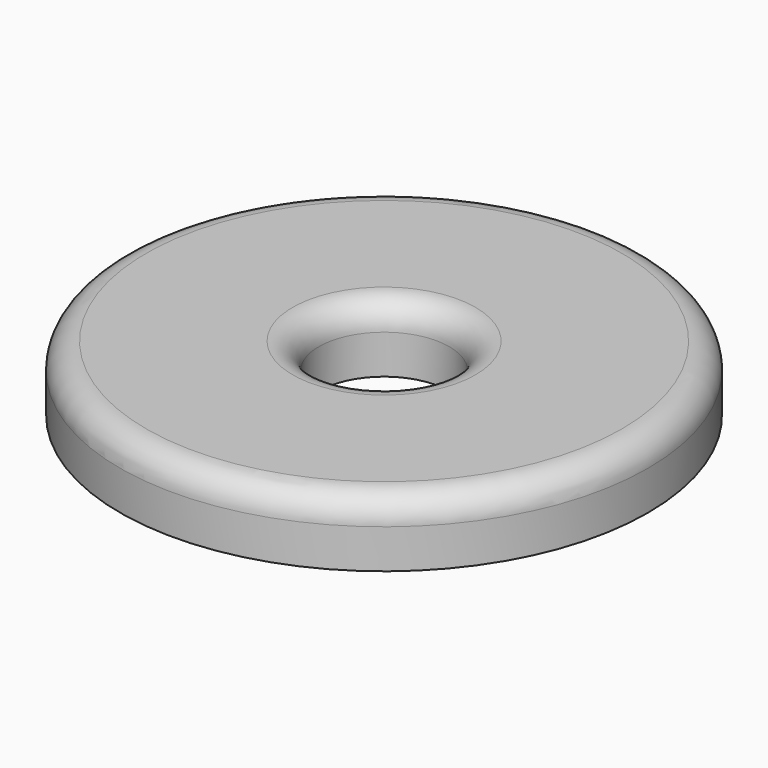
from build123d import *

# Parameters (mm, degrees)
F0_R     = 51.33938
F0_R_2   = 12.7
F1_DEPTH = 12.7
F2_R     = 5.08
F3_T     = -2.54


with BuildPart() as f1:
    # F0 (on Top) → F1 (new body)
    with BuildSketch(Plane.XY):
        Circle(F0_R)
        Circle(F0_R_2, mode=Mode.SUBTRACT)
    extrude(amount=F1_DEPTH)

    # F2
    f2_edges = [f1.edges().sort_by_distance(p)[0] for p in [
        (-51.33938, 0, 12.7),
        (-12.7, 0, 12.7),
    ]]
    fillet(f2_edges, radius=F2_R)

    # F3
    f3_openings = [f1.faces().sort_by_distance(p)[0] for p in [
        (-49.887283, 0, 0),
    ]]
    offset(amount=F3_T, openings=f3_openings)


solid = f1.part
